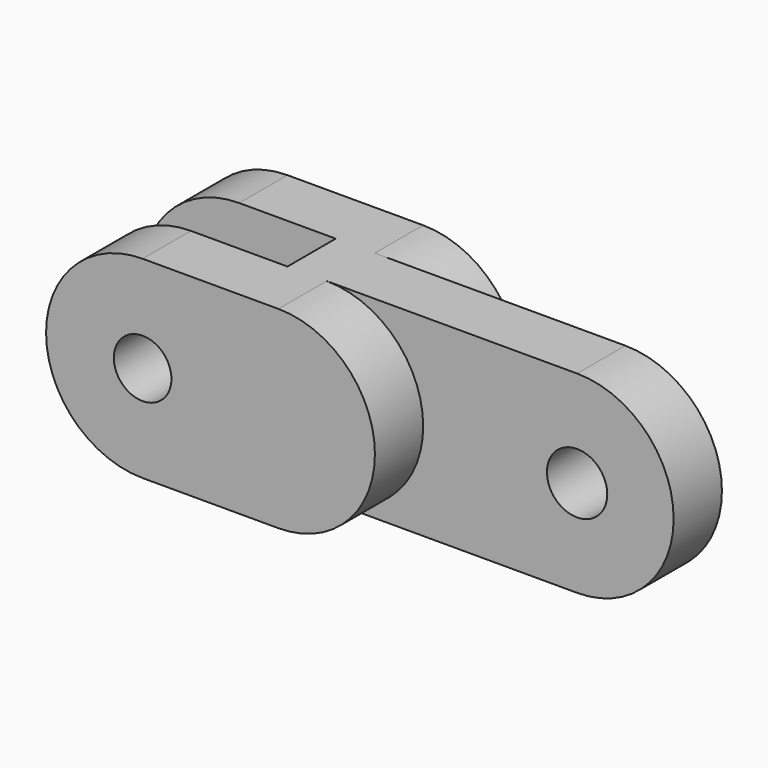
from build123d import *

# Parameters (mm, degrees)
F0_R          = 1.5875
F1_DEPTH      = 1.5875
F1_DEPTH_BACK = 1.5875
F2_R          = 1.516292
F3_DEPTH      = 3.175
F3_DEPTH_BACK = 6.35
F4_W          = 11.43
F4_H          = 10.16
F5_DEPTH      = 3.175


with BuildPart() as f1:
    # F0 (on Front) → F1 (new body, two sides)
    with BuildSketch(Plane.XZ) as f1_sk:
        with BuildLine():
            Line((20.32, 5.08), (0, 5.08))
            ThreePointArc((0, 5.08), (-5.08, 0), (0, -5.08))
            Line((0, -5.08), (20.32, -5.08))
            ThreePointArc((20.32, -5.08), (25.4, 0), (20.32, 5.08))
        make_face()
        Circle(F0_R, mode=Mode.SUBTRACT)
        with Locations((20.32, 0)):
            Circle(F0_R, mode=Mode.SUBTRACT)
    extrude(amount=F1_DEPTH)
    extrude(f1_sk.sketch, amount=-F1_DEPTH_BACK)

    # F2 (on face) → F3 (join, two sides)
    with BuildSketch(Plane.XZ.offset(1.5875)) as f3_sk:
        with BuildLine():
            Line((7.141738, 5.08), (0, 5.08))
            ThreePointArc((0, 5.08), (-5.08, 0), (0, -5.08))
            Line((0, -5.08), (7.141738, -5.08))
            ThreePointArc((7.141738, -5.08), (12.221738, 0), (7.141738, 5.08))
        make_face()
        Circle(F2_R, mode=Mode.SUBTRACT)
    extrude(amount=F3_DEPTH)
    extrude(f3_sk.sketch, amount=-F3_DEPTH_BACK)

    # F4 (on face) → F5 (cut)
    with BuildSketch(Plane.XZ.offset(1.5875)):
        with Locations((-0.635, 0)):
            Rectangle(F4_W, F4_H)
    extrude(amount=-F5_DEPTH, mode=Mode.SUBTRACT)


solid = f1.part
